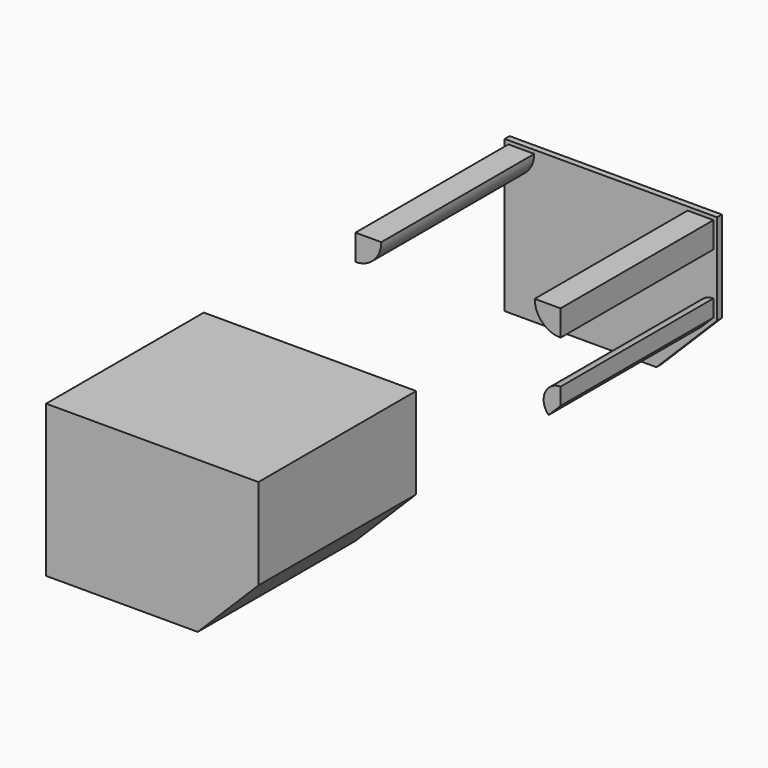
from build123d import *

# Parameters (mm, degrees)
SKETCH001_W    = 50
SKETCH001_H    = 65
PAD_DEPTH      = 1
SKETCH_R       = 1.25
PAD001_DEPTH   = 10
PAD001_FACE6_W = 65
PAD001_FACE6_H = 1
PAD002_DEPTH   = 20
PAD003_DEPTH   = 48
SKETCH003_W    = 70
SKETCH003_H    = 65
PAD004_DEPTH   = 1
POCKET_DEPTH   = 65.001
PAD005_DEPTH   = 64
PAD006_DEPTH   = 64
PAD007_DEPTH   = 2
PAD008_DEPTH   = 63


with BuildPart() as obj1:
    # Sketch001 → Pad (new body)
    with BuildSketch(Plane.XY):
        Rectangle(SKETCH001_W, SKETCH001_H)
    extrude(amount=-PAD_DEPTH)

    # Sketch → Pad001 (join)
    with BuildSketch(Plane.XY):
        with Locations((-11.75, 23)):
            Circle(SKETCH_R)
        with Locations((11.75, 23)):
            Circle(SKETCH_R)
        with Locations((-11.75, -23)):
            Circle(SKETCH_R)
        with Locations((11.75, -23)):
            Circle(SKETCH_R)
    extrude(amount=PAD001_DEPTH)

    # Pad001 Face6 → Pad002 (add)
    with BuildSketch(Plane(origin=(25, 0, -0.5), x_dir=(0, -1, 0), z_dir=(1, 0, 0))):
        Rectangle(PAD001_FACE6_W, PAD001_FACE6_H)
    extrude(amount=PAD002_DEPTH)

    # Sketch002 (on Face4 of Pad002) → Pad003 (join)
    with BuildSketch(Plane.XY):
        Polygon((-25, -32.5), (45, -32.5), (45, 32.5), (44, 32.5), (44, -31.5), (-24, -31.5), (-24, 32.5), (-25, 32.5), align=None)
    extrude(amount=PAD003_DEPTH)

    # Sketch003 (on Face11 of Pad003) → Pad004 (join)
    with BuildSketch(Plane.XY.offset(48)):
        with Locations((10, 0)):
            Rectangle(SKETCH003_W, SKETCH003_H)
    extrude(amount=PAD004_DEPTH)

    # Sketch004 (on Face7 of Pad004) → Pocket (cut, through all)
    with BuildSketch(Plane.XZ.offset(32.5)):
        Polygon((25, -1), (45, 19), (45, -1), align=None)
    extrude(amount=-POCKET_DEPTH, mode=Mode.SUBTRACT)

    # Sketch005 (on Face18 of Pocket) → Pad005 (join)
    with BuildSketch(Plane(origin=(0, -31.5, 0), x_dir=(-1, 0, 0), z_dir=(0, 1, 0))):
        Polygon((-44, 18), (-26, 0), (-24.585786, 0), (-44, 19.414214), align=None)
    extrude(amount=PAD005_DEPTH)

    # Sketch006 (on Face19 of Pad005) → Pad006 (join)
    with BuildSketch(Plane(origin=(0, -31.5, 0), x_dir=(-1, 0, 0), z_dir=(0, 1, 0))):
        with BuildLine():
            ThreePointArc((-38.343146, 13.757359), (-36.608964, 22.475681), (-44, 27.414214))
            Line((-44, 25.414214), (-44, 27.414214))
            ThreePointArc((-39.757359, 15.171573), (-38.456723, 21.710314), (-44, 25.414214))
            Line((-39.757359, 15.171573), (-38.343146, 13.757359))
        make_face()
        with BuildLine():
            ThreePointArc((-44, 37), (-36.221825, 40.221825), (-33, 48))
            Line((-35, 48), (-33, 48))
            ThreePointArc((-44, 39), (-37.636039, 41.636039), (-35, 48))
            Line((-44, 39), (-44, 37))
        make_face()
        with BuildLine():
            ThreePointArc((13, 48), (16.221825, 40.221825), (24, 37))
            Line((24, 39), (24, 37))
            ThreePointArc((15, 48), (17.636039, 41.636039), (24, 39))
            Line((15, 48), (13, 48))
        make_face()
    extrude(amount=PAD006_DEPTH)


with BuildPart() as obj2:
    # Sketch007 (on DatumPlane) → Pad007 (new body)
    with BuildSketch(Plane.XZ.offset(-32.5)):
        Polygon((45, 19), (45, 49), (-25, 49), (-25, -1), (25, -1), align=None)
    extrude(amount=-PAD007_DEPTH)

    # Sketch008 (on Face6 of Pad007) → Pad008 (join)
    with BuildSketch(Plane.XZ.offset(-32.5)):
        with BuildLine():
            ThreePointArc((-23.8, 39.282843), (-17.77746, 41.77746), (-15.282843, 47.8))
            Line((-23.8, 47.8), (-15.282843, 47.8))
            Line((-23.8, 39.282843), (-23.8, 47.8))
        make_face()
        with BuildLine():
            ThreePointArc((35.282843, 47.8), (37.77746, 41.77746), (43.8, 39.282843))
            Line((43.8, 39.282843), (43.8, 47.8))
            Line((43.8, 47.8), (35.282843, 47.8))
        make_face()
        with BuildLine():
            ThreePointArc((43.8, 25.080578), (38.641499, 21.633777), (39.851854, 15.54891))
            Line((43.8, 19.497056), (39.851854, 15.54891))
            Line((43.8, 25.080578), (43.8, 19.497056))
        make_face()
    extrude(amount=PAD008_DEPTH)


with BuildPart() as obj2_1:
    # Body001 placement: moved
    add(obj2.part.moved(Location((0, 124, 0))))


solid = Compound([obj1.part, obj2_1.part])
